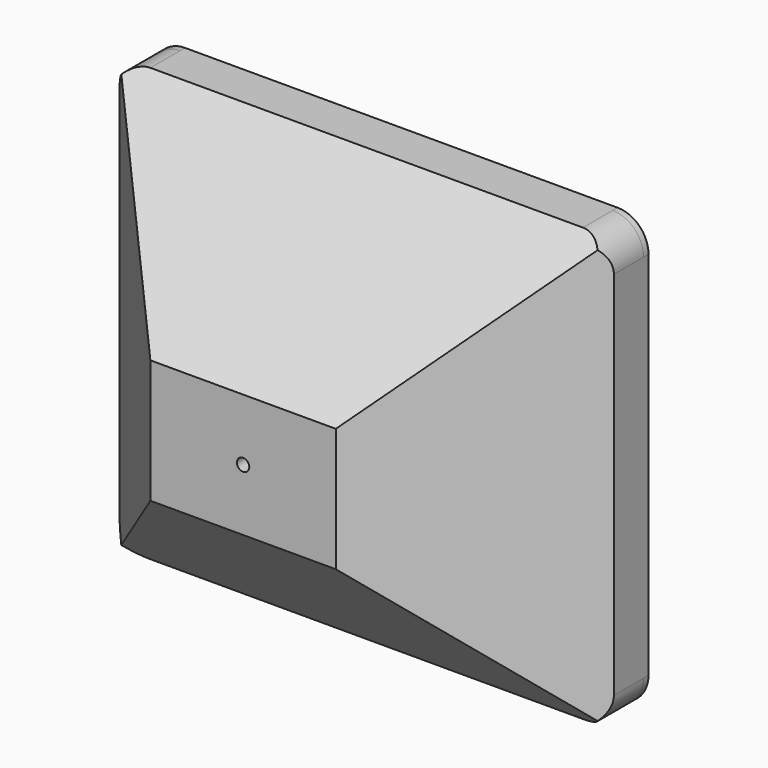
from build123d import *

# Parameters (mm, degrees)
F0_W     = 80
F0_H     = 70
F1_DEPTH = 26
F2_SIZE  = 25
F3_DEPTH = 5
F4_R     = 5
F5_W     = 75
F5_H     = 65
F6_DEPTH = 1
F7_R     = 1
F8_DEPTH = 2


with BuildPart() as f1:
    # F0 (on Front) → F1 (new body)
    with BuildSketch(Plane.XZ):
        Rectangle(F0_W, F0_H)
    extrude(amount=F1_DEPTH)

    # F2
    f2_edges = [f1.edges().sort_by_distance(p)[0] for p in [
        (0, -26, -35),
        (40, -26, 0),
        (0, -26, 35),
        (-40, -26, 0),
    ]]
    chamfer(f2_edges, length=F2_SIZE)

    # F3 (add): a face of the model
    f3_faces = [f1.faces().sort_by_distance(p)[0] for p in [
        (0, 0, 0),
    ]]
    extrude(f3_faces, amount=F3_DEPTH)

    # F4
    f4_edges = [f1.edges().sort_by_distance(p)[0] for p in [
        (40, 2, 35),
        (-40, 2, 35),
        (40, 2, -35),
        (-40, 2, -35),
    ]]
    fillet(f4_edges, radius=F4_R)

    # F5 (on face) → F6 (join)
    with BuildSketch(Plane(origin=(0, 5, 0), x_dir=(-1, 0, 0), z_dir=(0, 1, 0))):
        with BuildLine():
            ThreePointArc((-40, -30), (-38.5355339059, -33.5355339059), (-35, -35))
            Line((-35, -35), (35, -35))
            ThreePointArc((35, -35), (38.5355339059, -33.5355339059), (40, -30))
            Line((40, -30), (40, 30))
            ThreePointArc((40, 30), (38.5355339059, 33.5355339059), (35, 35))
            Line((35, 35), (-35, 35))
            ThreePointArc((-35, 35), (-38.5355339059, 33.5355339059), (-40, 30))
            Line((-40, 30), (-40, -30))
        make_face()
        Rectangle(F5_W, F5_H, mode=Mode.SUBTRACT)
    extrude(amount=F6_DEPTH)

    # F7 (on face) → F8 (cut)
    with BuildSketch(Plane.XZ.offset(26)):
        Circle(F7_R)
    extrude(amount=-F8_DEPTH, mode=Mode.SUBTRACT)


solid = f1.part
